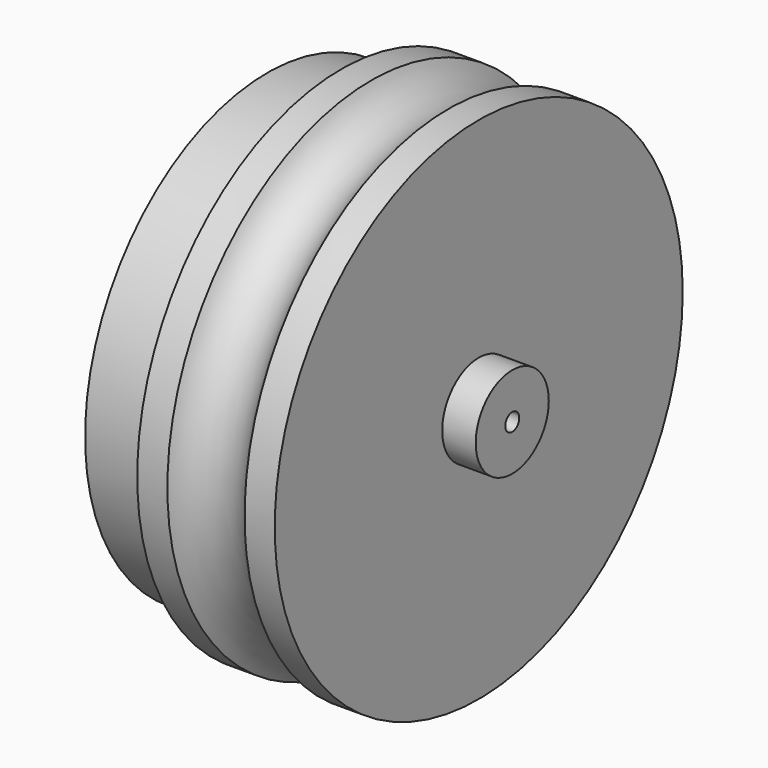
from build123d import *


with BuildPart() as ruota:
    # Sketch → Revolution (revolve)
    with BuildSketch(Plane.XY):
        with BuildLine():
            Line((-55.698756, 5), (-55.698756, 26.071145))
            Line((-55.698756, 26.071145), (-36.552202, 26.071145))
            Line((-36.552202, 26.071145), (-36.552202, 145.61193))
            Line((-36.552202, 145.61193), (-19.337039, 145.61193))
            ThreePointArc((-19.337039, 145.61193), (2.709405, 131.194364), (24.755848, 145.61193))
            Line((24.755848, 145.61193), (41.971011, 145.61193))
            Line((41.971011, 145.61193), (41.971011, 26.071145))
            Line((41.971011, 26.071145), (61.117565, 26.071145))
            Line((61.117565, 26.071145), (61.117565, 5))
            Line((61.117565, 5), (-55.698756, 5))
        make_face()
    revolve(axis=Axis((0, 0, 0), (1, 0, 0)))


with BuildPart() as obj1:
    # Sketch002 → Revolution002 (revolve)
    with BuildSketch(Plane.XY):
        with BuildLine():
            ThreePointArc((-20.163018, 61.373185), (-7.381753, 100.146933), (-35.156066, 130.069363))
            Line((-35.156066, 130.069363), (-78.754883, 130.069363))
            Line((-78.754883, 130.069363), (-97.963394, 26.3431))
            Line((-97.963394, 26.3431), (-29.589762, 26.3431))
            ThreePointArc((-20.163018, 61.373185), (-31.834674, 45.730646), (-29.589762, 26.3431))
        make_face()
    revolve(axis=Axis((0, 0, 0), (1, 0, 0)))


with BuildPart() as obj2:
    # Sketch003 → Revolution003 (revolve)
    with BuildSketch(Plane.XY):
        with BuildLine():
            ThreePointArc((-20.163018, 61.373185), (-7.381753, 100.146933), (-35.156066, 130.069363))
            Line((-35.156066, 130.069363), (-78.754883, 130.069363))
            Line((-78.754883, 130.069363), (-97.963394, 26.3431))
            Line((-97.963394, 26.3431), (-29.589762, 26.3431))
            ThreePointArc((-20.163018, 61.373185), (-31.834674, 45.730646), (-29.589762, 26.3431))
        make_face()
    revolve(axis=Axis((0, 0, 0), (1, 0, 0)))


solid = Compound([ruota.part, obj1.part, obj2.part])
